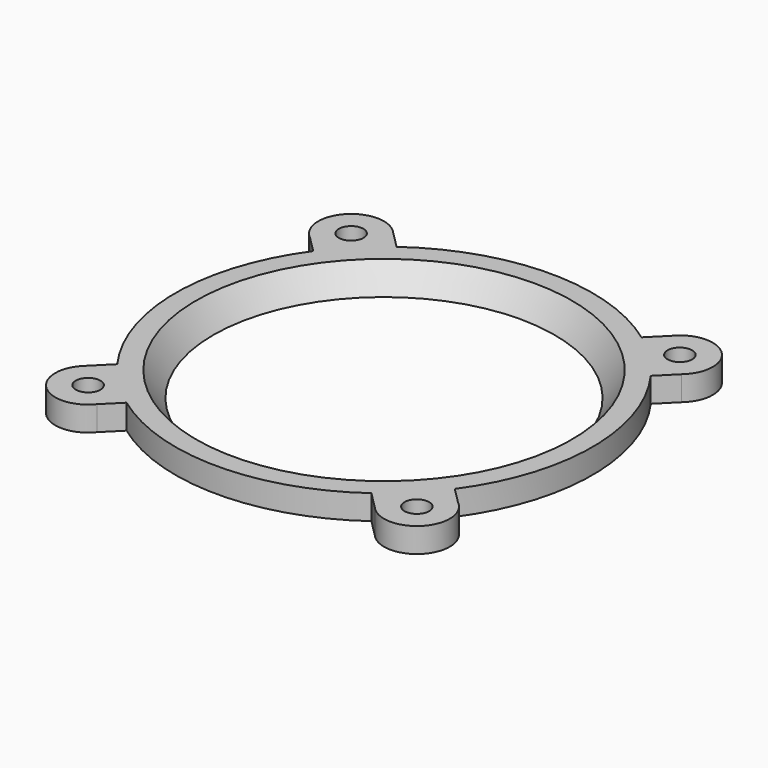
from build123d import *

# Parameters (mm, degrees)
SKETCH005_R = 1.5
PAD_DEPTH   = 3
ARRAY_COUNT = 4


with BuildPart() as revolution001:
    # Sketch004 → Revolution001 (revolve)
    with BuildSketch(Plane(origin=(0, 0, 16), x_dir=(0, 1, 0), z_dir=(1, 0, 0))):
        Polygon((20.768198, -1.5), (22.86882, 1.5), (25.36882, 1.5), (25.36882, -1.5), align=None)
    revolve(axis=Axis((0, 0, 16), (0, 0, 1)))


with BuildPart() as fusion:
    # Sketch005 → Pad (new body)
    with BuildSketch(Plane.XY.offset(14.5)):
        with BuildLine():
            ThreePointArc((20.271681, 14.630753), (17.680475, 17.674864), (14.637187, 20.267036))
            Line((14.637187, 20.267036), (16.909034, 22.538883))
            ThreePointArc((22.608377, 16.967448), (22.796148, 22.860342), (16.909034, 22.538883))
            Line((20.271681, 14.630753), (22.608377, 16.967448))
        make_face()
        with Locations((20, 20)):
            Circle(SKETCH005_R, mode=Mode.SUBTRACT)
    extrude(amount=PAD_DEPTH)

    # Array: Fusion ×4 about axis
    array_axis = Axis((0, 0, 1), (0, 0, 1))


with BuildPart() as fusion_1:
    add(fusion.part)
    for i in range(1, ARRAY_COUNT):
        add(fusion.part.rotate(array_axis, i * 360 / ARRAY_COUNT))

    # Fusion: union Revolution001
    add(revolution001.part)


solid = fusion_1.part
